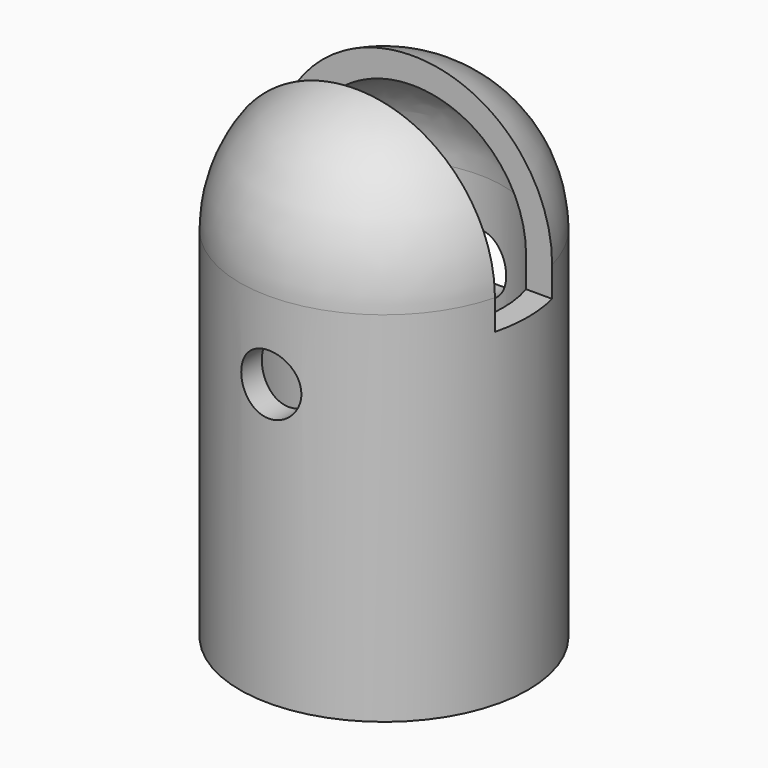
from build123d import *

# Parameters (mm, degrees)
F0_R      = 14.5993643937
F1_DEPTH  = 50.8
F2_R      = 14.478
F3_T      = -2.54
F4_W      = 31.7054085236
F4_H      = 7.25655691
F4_R      = 0.1213643937
F1_FACE_R = 0.1213643937
F3_FACE_R = 0.1213643937
F5_DEPTH  = 17.526
F6_R      = 3.048
F7_DEPTH  = 23.876
F8_R      = 3.048
F9_DEPTH  = 37.592


with BuildPart() as f1:
    # F0 (on Top) → F1 (new body)
    with BuildSketch(Plane.XY):
        Circle(F0_R)
    extrude(amount=F1_DEPTH)

    # F2
    f2_edges = [f1.edges().sort_by_distance(p)[0] for p in [
        (-14.599364, 0, 50.8),
    ]]
    fillet(f2_edges, radius=F2_R)

    # F3
    f3_openings = [f1.faces().sort_by_distance(p)[0] for p in [
        (0, 0, 0),
    ]]
    offset(amount=F3_T, openings=f3_openings)

    # F4 (on face) + F1_face (on face) + F3_face (on face) → F5 (cut)
    with BuildSketch(Plane.XY.offset(50.8)):
        Rectangle(F4_W, F4_H)
        Circle(F4_R, mode=Mode.SUBTRACT)
    with BuildSketch(Plane.XY.offset(50.8)):
        Circle(F1_FACE_R)
    with BuildSketch(Plane(origin=(0, 0, 48.26), x_dir=(1, 0, 0), z_dir=(0, 0, -1))):
        Circle(F3_FACE_R)
    extrude(amount=-F5_DEPTH, dir=(0, 0, 1), mode=Mode.SUBTRACT)

    # F6 (on Front) → F7 (cut)
    with BuildSketch(Plane.XZ):
        with Locations((0, 28.448)):
            Circle(F6_R)
    extrude(amount=-F7_DEPTH, mode=Mode.SUBTRACT)

    # F8 (on Front) → F9 (cut)
    with BuildSketch(Plane.XZ):
        with Locations((0, 28.448)):
            Circle(F8_R)
    extrude(amount=F9_DEPTH, mode=Mode.SUBTRACT)


solid = f1.part
